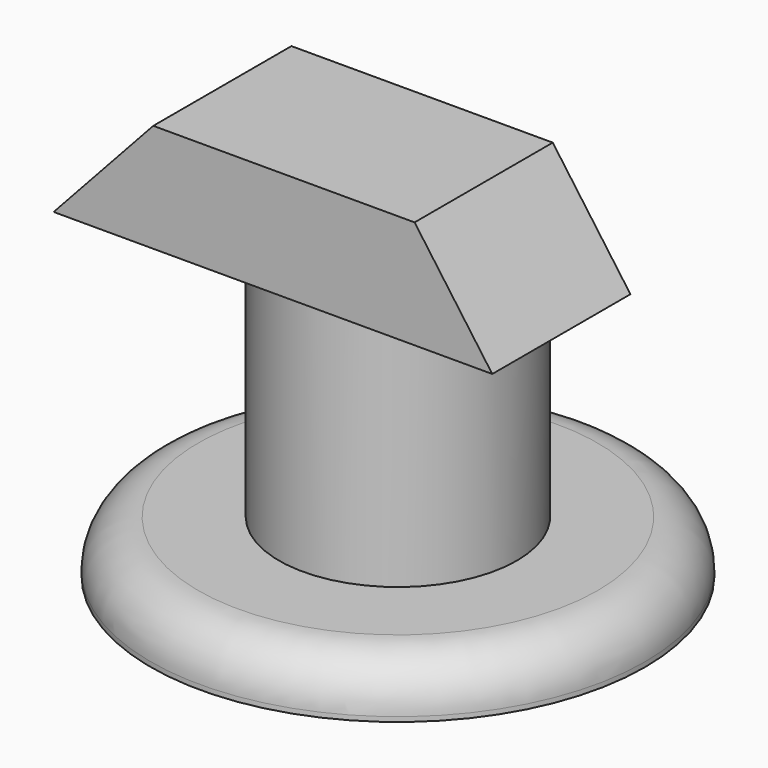
from build123d import *

# Parameters (mm, degrees)
F0_R     = 26.530172
F1_DEPTH = 5.587771
F2_R     = 12.763235
F3_DEPTH = 34.231685
F5_DEPTH = 18.542
F6_R     = 5.08


with BuildPart() as f1:
    # F0 (on Top) → F1 (new body)
    with BuildSketch(Plane.XY):
        Circle(F0_R)
    extrude(amount=F1_DEPTH)

    # F2 (on Top) → F3 (join)
    with BuildSketch(Plane.XY):
        Circle(F2_R)
    extrude(amount=F3_DEPTH)

    # F6
    f6_edges = [f1.edges().sort_by_distance(p)[0] for p in [
        (-26.530172, 0, 5.587771),
    ]]
    fillet(f6_edges, radius=F6_R)


with BuildPart() as f5:
    # F4 (on Front) → F5 (new body)
    with BuildSketch(Plane.XZ):
        Polygon((-22.129066, 34.740608), (0, 34.740608), (24.962415, 34.740608), (16.623402, 46.359368), (-11.434621, 46.359368), align=None)
    extrude(amount=F5_DEPTH)


solid = Compound([f1.part, f5.part])
